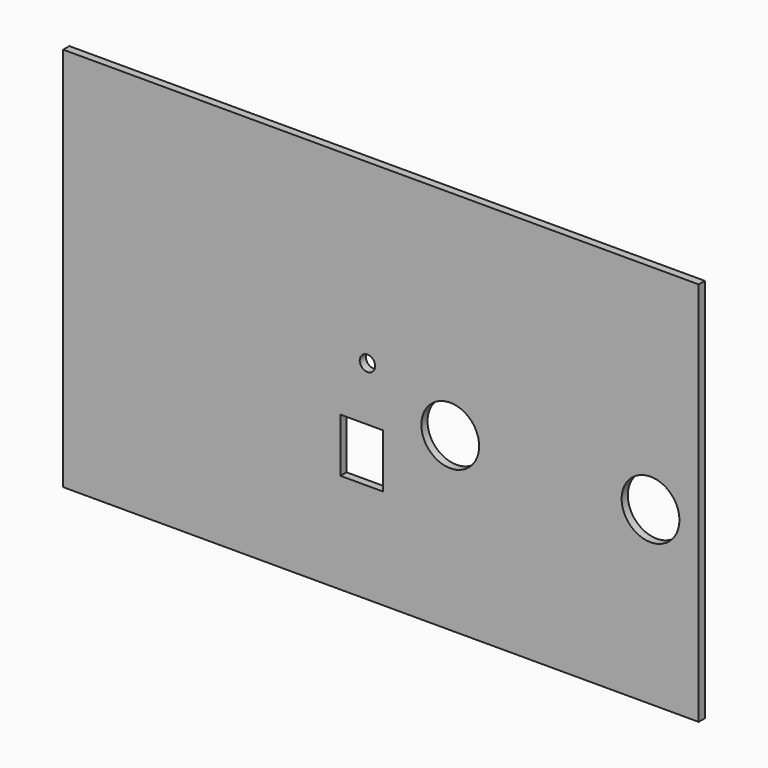
from build123d import *

# Parameters (mm, degrees)
F0_W     = 165
F0_H     = 100
F1_DEPTH = 2
F2_W     = 11
F2_H     = 14
F2_R     = 2
F2_R_2   = 7.5
F3_DEPTH = 25


with BuildPart() as f1:
    # F0 (on Front) → F1 (new body)
    with BuildSketch(Plane.XZ):
        Rectangle(F0_W, F0_H)
    extrude(amount=F1_DEPTH)

    # F2 (on face) → F3 (cut)
    with BuildSketch(Plane.XZ.offset(2)):
        with Locations((-5, -17)):
            Rectangle(F2_W, F2_H)
        with Locations((-3.5, 4)):
            Circle(F2_R)
        with Locations((18, -5.5)):
            Circle(F2_R_2)
        with Locations((70, -5.5)):
            Circle(F2_R_2)
    extrude(amount=-F3_DEPTH, mode=Mode.SUBTRACT)


solid = f1.part
